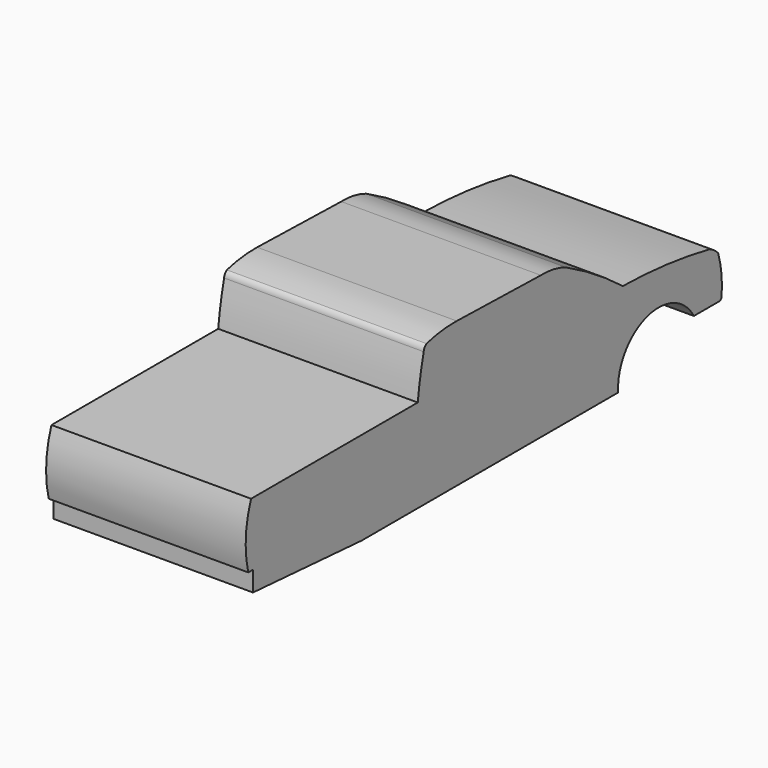
from build123d import *

# Parameters (mm, degrees)
F2_DEPTH = 2032


with BuildPart() as f2:
    # F1 (on Right) → F2 (new body)
    with BuildSketch(Plane.YZ):
        with BuildLine():
            Line((2101.785505274, 727.6855798425), (-19.7628020611, 727.6855798425))
            ThreePointArc((-19.7628020611, 727.6855798425), (-86.683913356, 407.2864265747), (-55.0640291836, 81.5039293828))
            Line((-55.0640291836, 81.5039293828), (4.8336413387, 81.5039293828))
            Line((4.8336413387, 81.5039293828), (4.8336413387, -122.9648201392))
            Line((4.8336413387, -122.9648201392), (1387.8776439164, -219.6968405173))
            Line((1387.8776439164, -219.6968405173), (2127.7049191926, -219.6968405173))
            ThreePointArc((2127.7049191926, -219.6968405173), (2081.5219811254, 253.0854160445), (2101.785505274, 727.6855798426))
        make_face()
        with BuildLine():
            ThreePointArc((2177.317456219, 1151.9124599161), (2132.8138260133, 940.9986331775), (2101.785505274, 727.6855798426))
            Line((2101.785505274, 727.6855798425), (2121.7959680293, 727.6855798425))
            ThreePointArc((2121.7959680293, 727.6855798425), (2094.9083803327, 253.8082407133), (2127.7049191926, -219.6968405173))
            Line((2127.7049191926, -219.6968405173), (4651.78068063, -219.6968405173))
            ThreePointArc((4651.78068063, -219.6968405173), (5016.5627272177, 310.719477874), (5615.5582227442, 74.8979168))
            Line((5615.5582227442, 74.8979168), (5934.3084523646, 74.8979168))
            ThreePointArc((5934.3084523646, 74.8979168), (5953.4810211659, 80.300832077), (5967.0113954416, 94.9195823619))
            ThreePointArc((5967.0113954416, 94.9195823619), (5967.1863626582, 306.4736463751), (5924.2433938852, 513.6234811494))
            ThreePointArc((5924.2433938852, 513.6234811494), (5874.6880783094, 558.1300327479), (5817.0284662119, 591.4756706902))
            ThreePointArc((5817.0284662119, 591.4756706902), (5267.1396396799, 676.7800301244), (4711.701813685, 710.5938843438))
            ThreePointArc((4711.701813685, 710.5938843438), (4359.9908008622, 958.3584005149), (3986.8287477365, 1172.4564484307))
            ThreePointArc((3986.8287477365, 1172.4564484307), (3830.5944128843, 1218.9973597292), (3668.0357456207, 1231.2408685684))
            Line((3668.0357456207, 1231.2408685684), (2597.9900360107, 1256.5667629242))
            ThreePointArc((2597.9900360107, 1256.5667629242), (2403.4041422687, 1247.2600489767), (2212.1274471283, 1210.3343009949))
            ThreePointArc((2212.1274471283, 1210.3343009949), (2187.8435508346, 1185.2220954437), (2177.317456219, 1151.9124599161))
        make_face()
        with BuildLine():
            Line((2121.7959680293, 727.6855798425), (2101.785505274, 727.6855798425))
            ThreePointArc((2101.785505274, 727.6855798426), (2081.5219811254, 253.0854160445), (2127.7049191926, -219.6968405173))
            ThreePointArc((2127.7049191926, -219.6968405173), (2094.9083803327, 253.8082407133), (2121.7959680293, 727.6855798425))
        make_face()
    extrude(amount=F2_DEPTH)


solid = f2.part
